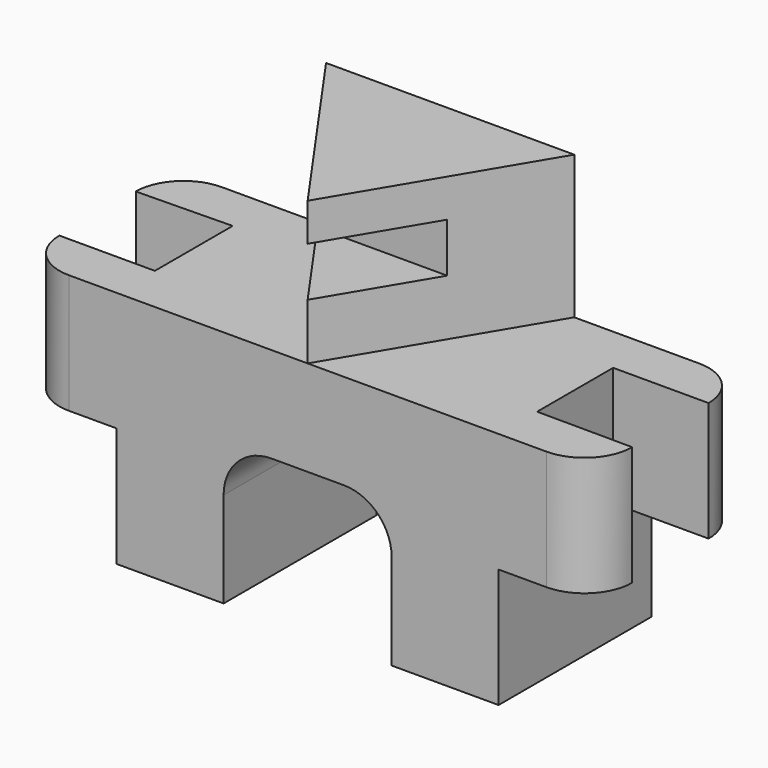
from build123d import *

# Parameters (mm, degrees)
F2_DEPTH = 50.8
F3_DEPTH = 63.5
F5_START = 38.1
F5_DEPTH = 63.5
F6_W     = 26.5905056149
F6_H     = 13.1163969636
F7_DEPTH = 152.401


with BuildPart() as f2:
    # F0 (on Front) → F2 (new body)
    with BuildSketch(Plane.XZ):
        with BuildLine():
            Line((25.4, 31.75), (25.4, 0))
            Line((25.4, 0), (53.848, 0))
            Line((53.848, 0), (53.848, 25.4))
            ThreePointArc((53.848, 25.4), (57.5677438789, 34.3802561211), (66.548, 38.1))
            Line((66.548, 38.1), (85.852, 38.1))
            ThreePointArc((85.852, 38.1), (94.8322561211, 34.3802561211), (98.552, 25.4))
            Line((98.552, 25.4), (98.552, 0))
            Line((98.552, 0), (127, 0))
            Line((127, 0), (127, 31.75))
            Line((127, 31.75), (152.4, 31.75))
            Line((152.4, 31.75), (152.4, 63.5))
            Line((152.4, 63.5), (127, 63.5))
            Line((127, 63.5), (88.9, 63.5))
            Line((88.9, 63.5), (63.5, 63.5))
            Line((63.5, 63.5), (38.1, 63.5))
            Line((38.1, 63.5), (25.4, 63.5))
            Line((25.4, 63.5), (0, 63.5))
            Line((0, 63.5), (0, 31.75))
            Line((0, 31.75), (25.4, 31.75))
        make_face()
    extrude(amount=-F2_DEPTH)

    # F1 (on Top) → F3 (cut)
    with BuildSketch(Plane.XY):
        with BuildLine():
            Line((0, 50.8), (0, 38.1))
            ThreePointArc((0, 38.1), (3.7197438789, 47.0802561211), (12.7, 50.8))
            Line((12.7, 50.8), (0, 50.8))
        make_face()
        with BuildLine():
            ThreePointArc((12.7, 0), (3.7197438789, 3.7197438789), (0, 12.7))
            Line((0, 12.7), (0, 0))
            Line((0, 0), (12.7, 0))
        make_face()
        Polygon((0, 38.1), (0, 12.7), (25.4, 12.7), (25.4, 38.5738648474), align=None)
        Polygon((127, 12.8180403262), (152.4, 12.7), (152.4, 38.1), (127, 38.1), align=None)
        with BuildLine():
            Line((152.4, 0), (152.4, 12.7))
            ThreePointArc((152.4, 12.7), (148.6802561211, 3.7197438789), (139.7, 0))
            Line((139.7, 0), (152.4, 0))
        make_face()
        with BuildLine():
            ThreePointArc((139.7, 50.8), (148.6802561211, 47.0802561211), (152.4, 38.1))
            Line((152.4, 38.1), (152.4, 50.8))
            Line((152.4, 50.8), (139.7, 50.8))
        make_face()
    extrude(amount=F3_DEPTH, mode=Mode.SUBTRACT)

    # F4 (on Top) → F5 (join)
    with BuildSketch(Plane.XY.offset(F5_START)):
        Polygon((40.4607152585, 50.8), (76.2, 0), (106.5007152585, 50.8), align=None)
    extrude(amount=F5_DEPTH)

    # F6 (on Right) → F7 (cut, through all)
    with BuildSketch(Plane.YZ):
        with Locations((13.2952528074, 84.9594064057)):
            Rectangle(F6_W, F6_H)
    extrude(amount=F7_DEPTH, mode=Mode.SUBTRACT)


solid = f2.part
